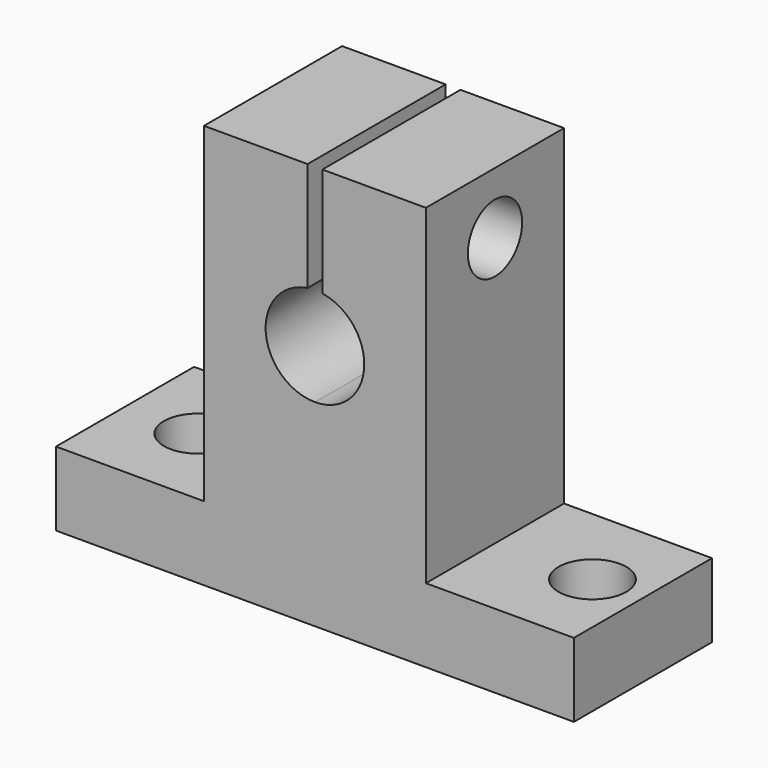
from build123d import *

# Parameters (mm, degrees)
F1_DEPTH = 14
F2_R     = 2.75
F3_DEPTH = 6
F4_R     = 2.75
F5_DEPTH = 9
F6_R     = 2.75
F7_DEPTH = 9


with BuildPart() as f1:
    # F0 (on Front) → F1 (new body)
    with BuildSketch(Plane.XZ):
        with BuildLine():
            Line((-66.492734, 17.676073), (-45.492734, 17.676073))
            Line((-45.492734, 17.676073), (-24.492734, 17.676073))
            Line((-24.492734, 17.676073), (-24.492734, 23.676073))
            Line((-24.492734, 23.676073), (-36.492734, 23.676073))
            Line((-36.492734, 23.676073), (-36.492734, 50.476073))
            Line((-36.492734, 50.476073), (-44.892734, 50.476073))
            Line((-44.892734, 50.476073), (-44.892734, 41.630817))
            ThreePointArc((-44.892734, 41.630817), (-41.504064, 37.375221), (-45.492734, 33.676073))
            ThreePointArc((-45.492734, 33.676073), (-49.481404, 37.375221), (-46.092734, 41.630817))
            Line((-46.092734, 41.630817), (-46.092734, 50.476073))
            Line((-46.092734, 50.476073), (-54.492734, 50.476073))
            Line((-54.492734, 50.476073), (-54.492734, 23.676073))
            Line((-54.492734, 23.676073), (-66.492734, 23.676073))
            Line((-66.492734, 23.676073), (-66.492734, 17.676073))
        make_face()
    extrude(amount=F1_DEPTH)

    # F2 (on face) → F3 (cut)
    with BuildSketch(Plane.XY.offset(23.676073)):
        with Locations((-60.588689, -6.999696)):
            Circle(F2_R)
        with Locations((-28.588689, -6.999696)):
            Circle(F2_R)
    extrude(amount=-F3_DEPTH, mode=Mode.SUBTRACT)

    # F4 (on face) → F5 (cut)
    with BuildSketch(Plane.YZ.offset(-36.492734)):
        with Locations((-7, 45.476073)):
            Circle(F4_R)
    extrude(amount=-F5_DEPTH, mode=Mode.SUBTRACT)

    # F6 (on face) → F7 (cut)
    with BuildSketch(Plane(origin=(-54.492734, 0, 0), x_dir=(0, -1, 0), z_dir=(-1, 0, 0))):
        with Locations((7, 45.476073)):
            Circle(F6_R)
    extrude(amount=-F7_DEPTH, mode=Mode.SUBTRACT)


solid = f1.part
